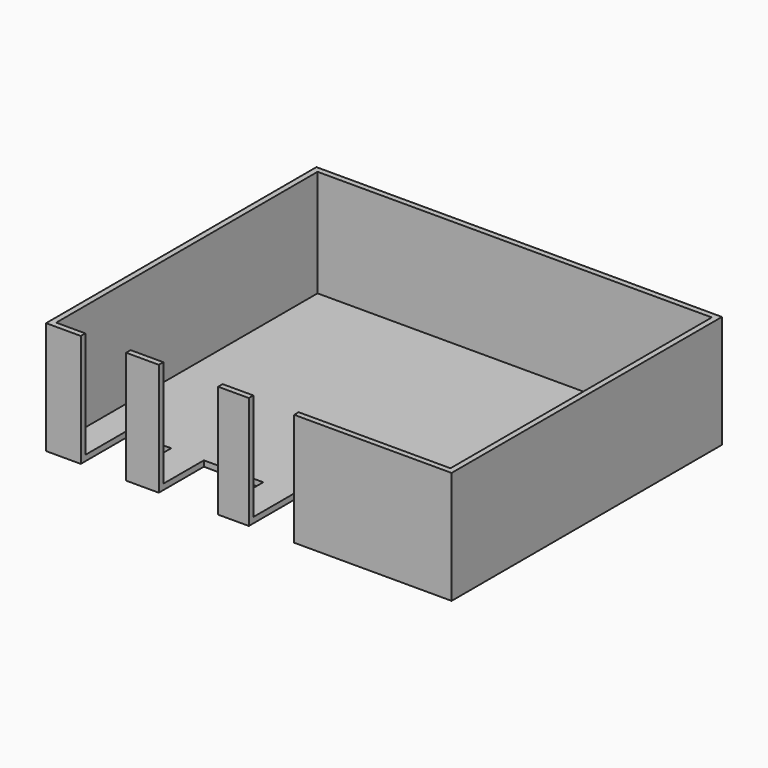
from build123d import *

# Parameters (mm, degrees)
F0_W      = 180
F0_H      = 150
F1_DEPTH  = 50
F2_T      = -2.5
F3_W      = 20.1315768063
F3_H      = 50
F4_DEPTH  = 25
F5_W      = 20.1315768063
F5_H      = 50
F6_DEPTH  = 25
F7_W      = 20.131578669
F7_H      = 50
F8_DEPTH  = 25
F9_W      = 6.2171062455
F9_H      = 50
F10_DEPTH = 25


with BuildPart() as f1:
    # F0 (on Top) → F1 (new body)
    with BuildSketch(Plane.XY):
        Rectangle(F0_W, F0_H)
    extrude(amount=F1_DEPTH)

    # F2
    f2_openings = [f1.faces().sort_by_distance(p)[0] for p in [
        (0, 0, 50),
    ]]
    offset(amount=F2_T, openings=f2_openings)

    # F3 (on face) → F4 (cut)
    with BuildSketch(Plane.XZ.offset(75)):
        with Locations((-64.5394753665, 25)):
            Rectangle(F3_W, F3_H)
    extrude(amount=-F4_DEPTH, mode=Mode.SUBTRACT)

    # F5 (on face) → F6 (cut)
    with BuildSketch(Plane.XZ.offset(75)):
        with Locations((-29.9013163894, 25)):
            Rectangle(F5_W, F5_H)
    extrude(amount=-F6_DEPTH, mode=Mode.SUBTRACT)

    # F7 (on face) → F8 (cut)
    with BuildSketch(Plane.XZ.offset(75)):
        with Locations((10.0657893345, 25)):
            Rectangle(F7_W, F7_H)
    extrude(amount=-F8_DEPTH, mode=Mode.SUBTRACT)

    # F9 (on face) → F10 (cut)
    with BuildSketch(Plane.XZ.offset(75)):
        with Locations((-16.7269748636, 25)):
            Rectangle(F9_W, F9_H)
    extrude(amount=-F10_DEPTH, mode=Mode.SUBTRACT)


solid = f1.part
